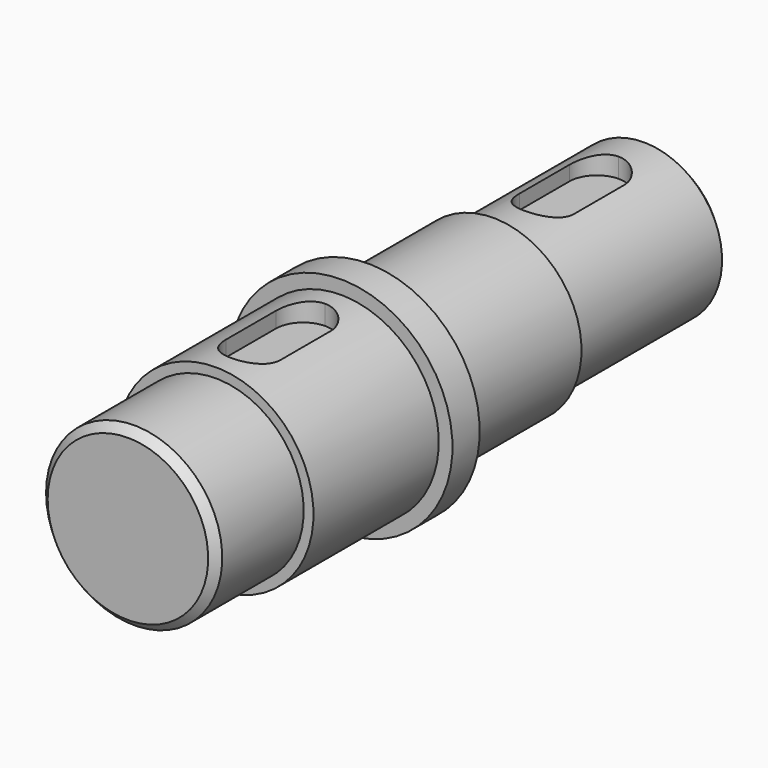
from build123d import *

# Parameters (mm, degrees)
F2_SIZE  = 2
F5_DEPTH = 5
F6_DEPTH = 10


with BuildPart() as f1:
    # F0 (on Top) → F1 (revolve)
    with BuildSketch(Plane.XY):
        Polygon((-22.5, 0), (0, 0), (0, 166.7), (-20, 166.7), (-20, 116.7), (-22.5, 116.7), (-22.5, 76.7), (-28.5, 76.7), (-28.5, 68), (-25, 68), (-25, 28), (-22.5, 28), align=None)
    revolve(axis=Axis((0, 59.789897, 0), (0, -1, 0)))

    # F2
    f2_edges = [f1.edges().sort_by_distance(p)[0] for p in [
        (20, 166.7, 0),
        (22.5, 0, 0),
    ]]
    chamfer(f2_edges, length=F2_SIZE)

    # F4 (on offset) → F5 (cut)
    with BuildSketch(Plane.XY.offset(25)):
        with BuildLine():
            Line((7, 40), (7, 56))
            ThreePointArc((7, 56), (4.949747, 60.949747), (0, 63))
            ThreePointArc((0, 63), (-4.949747, 60.949747), (-7, 56))
            Line((-7, 56), (-7, 40))
            ThreePointArc((-7, 40), (-4.949747, 35.050253), (0, 33))
            ThreePointArc((0, 33), (4.949747, 35.050253), (7, 40))
        make_face()
    extrude(amount=-F5_DEPTH, mode=Mode.SUBTRACT)

    # F4 (on offset) → F6 (cut)
    with BuildSketch(Plane.XY.offset(25)):
        with BuildLine():
            Line((7, 133.7), (7, 149.7))
            ThreePointArc((7, 149.7), (4.949747, 154.649747), (0, 156.7))
            ThreePointArc((0, 156.7), (-4.949747, 154.649747), (-7, 149.7))
            Line((-7, 149.7), (-7, 133.7))
            ThreePointArc((-7, 133.7), (-4.949747, 128.750253), (0, 126.7))
            ThreePointArc((0, 126.7), (4.949747, 128.750253), (7, 133.7))
        make_face()
    extrude(amount=-F6_DEPTH, mode=Mode.SUBTRACT)


solid = f1.part
